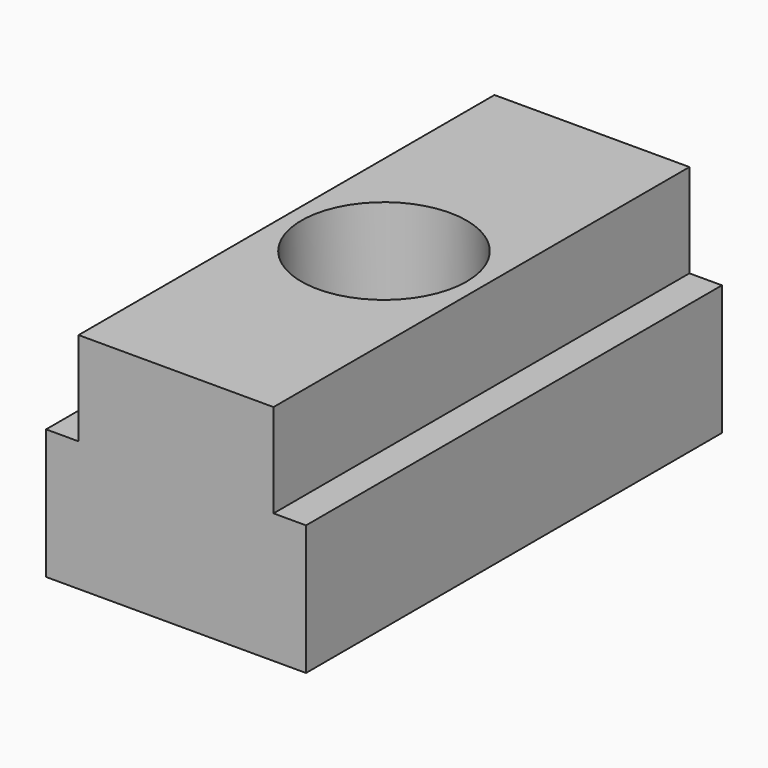
from build123d import *

# Parameters (mm, degrees)
F0_W     = 9.525
F0_H     = 4.572
F1_DEPTH = 25.4
F2_R     = 4.0386
F3_DEPTH = 5.08
F4_R     = 2.2225
F5_DEPTH = 5.843


with BuildPart() as f1:
    # F0 (on Front) → F1 (new body)
    with BuildSketch(Plane.XZ):
        with Locations((4.7625, 2.286)):
            Rectangle(F0_W, F0_H)
        Polygon((9.525, 0), (0, 0), (-1.5875, 0), (-1.5875, -6.35), (11.1125, -6.35), (11.1125, 0), align=None)
    extrude(amount=F1_DEPTH)

    # F2 (on face) → F3 (cut)
    with BuildSketch(Plane.XY.offset(4.572)):
        with Locations((4.7625, -12.7)):
            Circle(F2_R)
    extrude(amount=-F3_DEPTH, mode=Mode.SUBTRACT)

    # F4 (on face) → F5 (cut, through all)
    with BuildSketch(Plane.XY.offset(-0.508)):
        with Locations((4.7625, -12.7)):
            Circle(F4_R)
    extrude(amount=-F5_DEPTH, mode=Mode.SUBTRACT)


solid = f1.part
